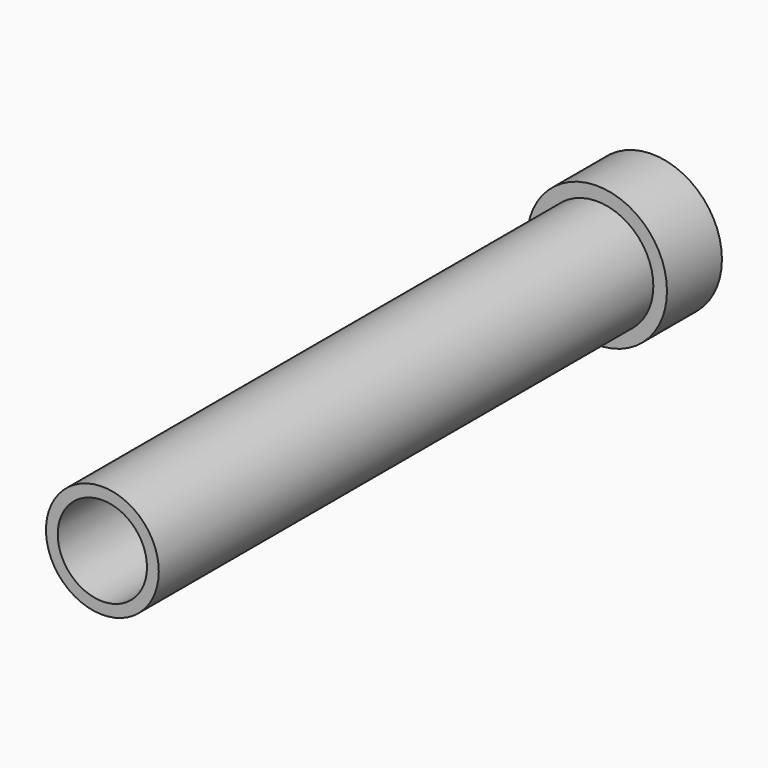
from build123d import *

# Parameters (mm, degrees)
F0_R     = 2.085416
F0_R_2   = 1.649774
F1_DEPTH = 22.86
F0_R_3   = 2.589467
F3_DEPTH = 2.54


with BuildPart() as f1:
    # F0 (on Front) → F1 (new body)
    with BuildSketch(Plane.XZ):
        Circle(F0_R)
        Circle(F0_R_2, mode=Mode.SUBTRACT)
    extrude(amount=F1_DEPTH)


with BuildPart() as f3:
    # F0 (on Front) → F3 (new body)
    with BuildSketch(Plane.XZ):
        Circle(F0_R_3)
        Circle(F0_R, mode=Mode.SUBTRACT)
    extrude(amount=-F3_DEPTH)


solid = Compound([f1.part, f3.part])
